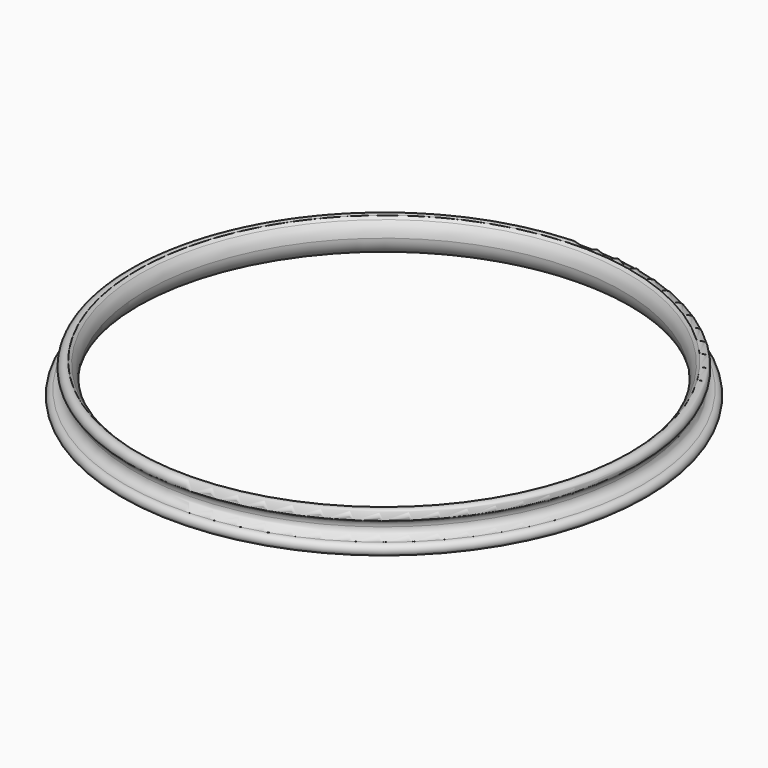
from build123d import *


with BuildPart() as f2:
    # F2: sweep along a path in F0
    with BuildLine(Plane.XY) as f2_path:
        CenterArc((0, 0), 29.25, 0, 360)
    # F1 (on Front) → F2 (sweep)
    with BuildSketch(Plane.XZ):
        with BuildLine():
            ThreePointArc((-27.9071547348, 1.805343899), (-28.669188062, 1.6413127346), (-28.75, 0.8660254038))
            Line((-28.75, 0.8660254038), (-27.6001644808, 1.5298832503))
            ThreePointArc((-27.6001644808, 1.5298832503), (-27.7473342981, 1.674662888), (-27.9071547348, 1.805343899))
        make_face()
        with BuildLine():
            Line((-27.6001644808, 1.5298832503), (-28.75, 0.8660254038))
            ThreePointArc((-28.75, 0.8660254038), (-28.582148577, 0.7442946169), (-28.443009746, 0.5905647551))
            ThreePointArc((-28.443009746, 0.5905647551), (-27.8125622661, 0.641818994), (-27.5112243939, 1.1979543271))
            ThreePointArc((-27.5112243939, 1.1979543271), (-27.5338448015, 1.369773381), (-27.6001644808, 1.5298832503))
        make_face()
        with BuildLine():
            ThreePointArc((-28.25, 0), (-28.5428932188, -0.7071067812), (-29.25, -1))
            ThreePointArc((-29.25, -1), (-28.8080582618, -1.1830582618), (-28.625, -1.625))
            ThreePointArc((-28.625, -1.625), (-28.8080582618, -2.0669417382), (-29.25, -2.25))
            ThreePointArc((-29.25, -2.25), (-27.6590097423, -1.5909902577), (-27, 0))
            ThreePointArc((-27, 0), (-27.1554081641, 0.8216964408), (-27.6001644808, 1.5298832503))
            ThreePointArc((-27.6001644808, 1.5298832503), (-27.5338448015, 1.369773381), (-27.5112243939, 1.1979543271))
            ThreePointArc((-27.5112243939, 1.1979543271), (-27.8125622661, 0.641818994), (-28.443009746, 0.5905647551))
            ThreePointArc((-28.443009746, 0.5905647551), (-28.2994763932, 0.3106523346), (-28.25, 0))
        make_face()
        with BuildLine():
            ThreePointArc((-28.625, -1.625), (-28.8080582618, -1.1830582618), (-29.25, -1))
            Line((-29.25, -1), (-29.25, -2.25))
            ThreePointArc((-29.25, -2.25), (-28.8080582618, -2.0669417382), (-28.625, -1.625))
        make_face()
        with BuildLine():
            Line((-29.25, -2.25), (-29.25, -1))
            ThreePointArc((-29.25, -1), (-29.875, -1.625), (-29.25, -2.25))
        make_face()
    sweep(path=f2_path.line)


solid = f2.part
